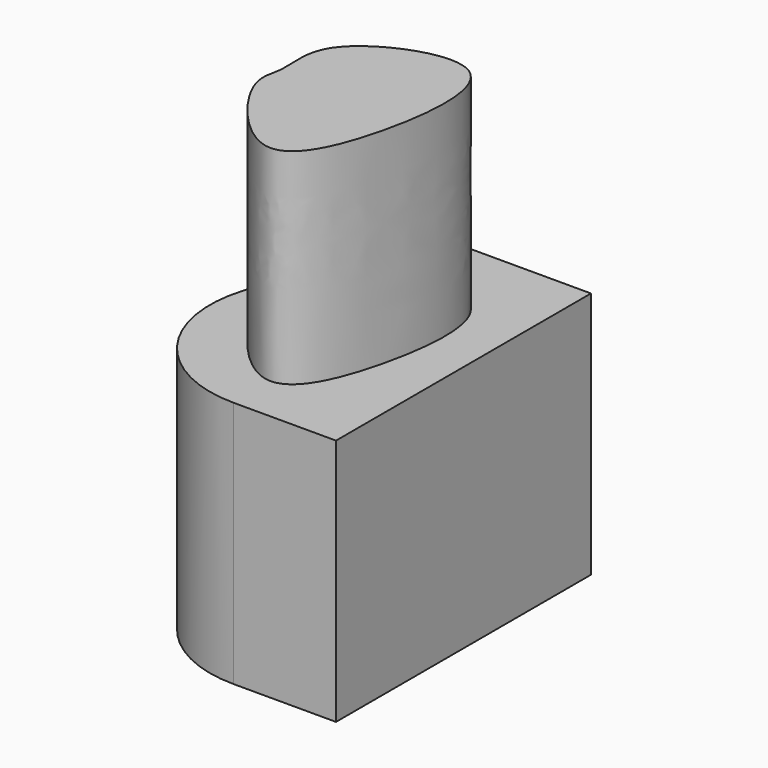
from build123d import *

# Parameters (mm, degrees)
F1_DEPTH = 86.596056819
F2_R     = 41.200118827
F4_DEPTH = 71.7679932714


with BuildPart() as f1:
    # F0 (on Top) → F1 (new body)
    with BuildSketch(Plane.XY):
        Polygon((-20.6972062588, 67.9408758879), (-54.4426739216, -43.4941500425), (36.8950515985, -43.4941500425), (36.8950515985, 67.9408758879), align=None)
    extrude(amount=F1_DEPTH)

    # F2
    f2_edges = [f1.edges().sort_by_distance(p)[0] for p in [
        (-54.442674, -43.49415, 43.298028),
    ]]
    fillet(f2_edges, radius=F2_R)

    # F3 (on face) → F4 (join)
    with BuildSketch(Plane.XY.offset(86.596056819)):
        with BuildLine():
            add(Edge.make_bspline(
                [(11.0091032889, 43.8093641297), (0.6801912823, 46.2879540781), (-29.7867133089, 32.6389337446), (-25.4122136179, 16.2676269293), (-25.7418341935, 11.3187767565)],
                knots=[0.6904496957, 0.6904496957, 0.6904496957, 0.6904496957, 0.8655626605, 1, 1, 1, 1], degree=3))
            add(Edge.make_bspline(
                [(-25.7418341935, 11.3187767565), (-25.9968734289, 7.4896742735), (-30.4830661212, 0.3352469493), (2.8822074543, -42.0198360682), (21.3694389315, -0.2703530615), (24.1383163253, 39.2092619527), (12.0148623867, 43.568015923), (11.0091032889, 43.8093641297)],
                knots=[0, 0, 0, 0, 0.1040189807, 0.2935373263, 0.4705988468, 0.673398388, 0.6904496957, 0.6904496957, 0.6904496957, 0.6904496957], degree=3))
        make_face()
    extrude(amount=F4_DEPTH)


solid = f1.part
